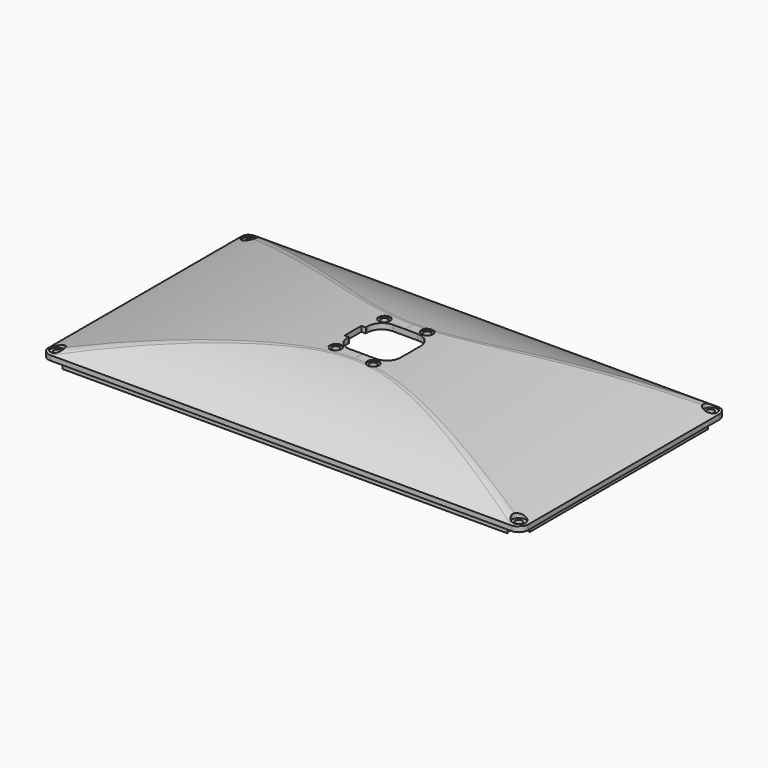
from build123d import *

# Parameters (mm, degrees)
CYLINDER001_R     = 1.6
CYLINDER001_DEPTH = 50
SKETCH009_R       = 2.6
PAD010_DEPTH      = 20
PAD009_DEPTH      = 42
CYLINDER_R        = 3
CYLINDER_DEPTH    = 50
SKETCH_R          = 1.6
PAD008_DEPTH      = 25
PAD007_DEPTH      = 117.5
PAD006_DEPTH      = 65
PAD005_DEPTH      = 22.5
PAD002_DEPTH      = 95
PAD004_DEPTH      = 137.5
PAD003_DEPTH      = 67.5
PAD_DEPTH         = 3
FILLET_R          = 6


with BuildPart() as pad010:
    # Cylinder001 → Cylinder001 (new body)
    with BuildSketch(Plane(origin=(-10.8, -13.7, -32.8), x_dir=(1, 0, 0), z_dir=(0, 0, 1))):
        Circle(CYLINDER001_R)
    extrude(amount=CYLINDER001_DEPTH)

    # Sketch009 → Pad010 (new body)
    with BuildSketch(Plane(origin=(-10.8, -13.7, 17.2), x_dir=(1, 0, 0), z_dir=(0, 0, 1))):
        Circle(SKETCH009_R)
    extrude(amount=PAD010_DEPTH)


with BuildPart() as part_mirroring002:
    # Part__Mirroring002: instance of Pad010
    add(pad010.part.mirror(Plane(origin=(0, 0, 0), x_dir=(1, 0, 0), z_dir=(0, 1, 0))))


with BuildPart() as clone_of_pad010:
    # Clone base: copy of Pad010
    add(pad010.part)


with BuildPart() as clone_of_pad010_1:
    # Clone placement: moved
    add(clone_of_pad010.part.moved(Location((18.1, -1.5, 0))))


with BuildPart() as part_mirroring003:
    # Part__Mirroring003: instance of Clone of Pad010
    add(clone_of_pad010_1.part.mirror(Plane(origin=(0, 0, 0), x_dir=(1, 0, 0), z_dir=(0, 1, 0))))


with BuildPart() as fusion002:
    # Sketch008 → Pad009 (new body)
    with BuildSketch(Plane.XY):
        with BuildLine():
            Line((5.6, 12), (-5.6, 12))
            ThreePointArc((-5.6, 12), (-10.125483, 10.125483), (-12, 5.6))
            Line((-12, 5.6), (-12, 4.75))
            Line((-12, 4.75), (-14, 4.75))
            Line((-14, 4.75), (-14, -4.75))
            Line((-14, -4.75), (-12, -4.75))
            Line((-12, -4.75), (-12, -5.6))
            ThreePointArc((-12, -5.6), (-10.125483, -10.125483), (-5.6, -12))
            Line((-5.6, -12), (5.6, -12))
            ThreePointArc((5.6, -12), (10.125483, -10.125483), (12, -5.6))
            Line((12, -5.6), (12, 0))
            Line((12, 0), (12, 5.6))
            ThreePointArc((12, 5.6), (10.125483, 10.125483), (5.6, 12))
        make_face()
    extrude(amount=PAD009_DEPTH)

    # Fusion002: union Part__Mirroring002, Pad010, Part__Mirroring003, Clone of Pad010
    add(part_mirroring002.part)
    add(pad010.part)
    add(part_mirroring003.part)
    add(clone_of_pad010_1.part)


with BuildPart() as pad008:
    # Cylinder → Cylinder (new body)
    with BuildSketch(Plane(origin=(104, -54, 2), x_dir=(1, 0, 0), z_dir=(0, 0, 1))):
        Circle(CYLINDER_R)
    extrude(amount=CYLINDER_DEPTH)

    # Sketch → Pad008 (new body)
    with BuildSketch(Plane(origin=(104, -54, 2), x_dir=(1, 0, 0), z_dir=(0, 0, -1))):
        Circle(SKETCH_R)
    extrude(amount=PAD008_DEPTH)


with BuildPart() as part_mirroring:
    # Part__Mirroring: instance of Pad008
    add(pad008.part.mirror(Plane(origin=(0, 0, 0), x_dir=(1, 0, 0), z_dir=(0, 1, 0))))


with BuildPart() as fusion:
    # Fusion base: copy of Pad008
    add(pad008.part)

    # Fusion: union Part__Mirroring
    add(part_mirroring.part)


with BuildPart() as part_mirroring001:
    # Part__Mirroring001: instance of Fusion
    add(fusion.part.mirror(Plane(origin=(0, 0, 0), x_dir=(0, -1, 0), z_dir=(1, 0, 0))))


with BuildPart() as screw_pockets:
    # Fusion001 base: copy of Fusion
    add(fusion.part)

    # Fusion001: union Part__Mirroring001
    add(part_mirroring001.part)


with BuildPart() as mirrored003:
    # Sketch007 → Pad007 (new body, symmetric)
    with BuildSketch(Plane.YZ):
        with BuildLine():
            Line((-20.5, 15.2), (0, 15.2))
            Line((0, 15.2), (0, -5))
            Line((-65.417582, -5), (0, -5))
            ThreePointArc((-20.5, 15.2), (-44.130123, 7.704623), (-65.417582, -5))
        make_face()
    pad007 = extrude(amount=PAD007_DEPTH, both=True)

    # Mirrored003: Pad007 across Sketch007 V_Axis
    add(pad007.mirror(Plane(origin=(0, 0, 0), x_dir=(1, 0, 0), z_dir=(0, 1, 0))))


with BuildPart() as common002:
    # Sketch006 → Pad006 (new body, symmetric)
    with BuildSketch(Plane.XZ):
        with BuildLine():
            Line((0, -5), (-124.236181, -5))
            ThreePointArc((-16, 15.5), (-70.863313, 9.184635), (-124.236181, -5))
            Line((-16, 15.5), (0, 15.5))
            Line((0, -5), (0, 15.5))
        make_face()
    pad006 = extrude(amount=PAD006_DEPTH, both=True)

    # Mirrored002: Pad006 across Sketch006 V_Axis
    add(pad006.mirror(Plane(origin=(0, 0, 0), x_dir=(0, -1, 0), z_dir=(1, 0, 0))))

    # Common002: intersect Mirrored003
    add(mirrored003.part, mode=Mode.INTERSECT)


with BuildPart() as common003:
    # Sketch005 → Pad005 (new body, symmetric)
    with BuildSketch(Plane.XY):
        with BuildLine():
            Line((-104.3, 48.3079), (-104.3, -48.3079))
            ThreePointArc((-98.3079, -54.3), (-99.969491, -49.969491), (-104.3, -48.3079))
            Line((-98.3079, -54.3), (98.3079, -54.3))
            ThreePointArc((104.3, -48.3079), (99.969491, -49.969491), (98.3079, -54.3))
            Line((104.3, -48.3079), (104.3, 48.3079))
            ThreePointArc((98.3079, 54.3), (99.969491, 49.969491), (104.3, 48.3079))
            Line((98.3079, 54.3), (-98.3079, 54.3))
            ThreePointArc((-104.3, 48.3079), (-99.969491, 49.969491), (-98.3079, 54.3))
        make_face()
    extrude(amount=PAD005_DEPTH, both=True)

    # Common003: intersect Common002
    add(common002.part, mode=Mode.INTERSECT)


with BuildPart() as outer_edges:
    # Sketch002 → Pad002 (new body)
    with BuildSketch(Plane.XY):
        with BuildLine():
            Line((-104, 58), (104, 58))
            ThreePointArc((108, 54), (106.828427, 56.828427), (104, 58))
            Line((108, 54), (108, -54))
            ThreePointArc((104, -58), (106.828427, -56.828427), (108, -54))
            Line((104, -58), (-104, -58))
            ThreePointArc((-108, -54), (-106.828427, -56.828427), (-104, -58))
            Line((-108, -54), (-108, 54))
            ThreePointArc((-104, 58), (-106.828427, 56.828427), (-108, 54))
        make_face()
    extrude(amount=PAD002_DEPTH)


with BuildPart() as mirrored001:
    # Sketch004 → Pad004 (new body, symmetric)
    with BuildSketch(Plane.YZ):
        with BuildLine():
            ThreePointArc((0, 19.17096), (-32.114777, 14.266439), (-61.301794, 0))
            Line((-61.301794, 0), (0, 0))
            Line((0, 19.17096), (0, 0))
        make_face()
    pad004 = extrude(amount=PAD004_DEPTH, both=True)

    # Mirrored001: Pad004 across Sketch004 V_Axis
    add(pad004.mirror(Plane(origin=(0, 0, 0), x_dir=(1, 0, 0), z_dir=(0, 1, 0))))


with BuildPart() as clone_of_cut002:
    # Sketch003 → Pad003 (new body, symmetric)
    with BuildSketch(Plane.XZ):
        with BuildLine():
            Line((0, 0), (-115.177541, 0))
            ThreePointArc((0, 17.836286), (-58.275207, 13.350797), (-115.177541, 0))
            Line((0, 0), (0, 17.836286))
        make_face()
    pad003 = extrude(amount=PAD003_DEPTH, both=True)

    # Mirrored: Pad003 across Sketch003 V_Axis
    add(pad003.mirror(Plane(origin=(0, 0, 0), x_dir=(0, -1, 0), z_dir=(1, 0, 0))))

    # Common: intersect Mirrored001
    add(mirrored001.part, mode=Mode.INTERSECT)

    # Common001: intersect outer_edges
    add(outer_edges.part, mode=Mode.INTERSECT)

    # Sketch001 → Pad (new body)
    with BuildSketch(Plane(origin=(0, 0, 0), x_dir=(1, 0, 0), z_dir=(0, 0, -1))):
        with BuildLine():
            Line((-105.8, 50.205267), (-105.8, -50.205267))
            ThreePointArc((-100.205267, -55.8), (-101.030152, -51.030152), (-105.8, -50.205267))
            Line((-100.205267, -55.8), (100.205267, -55.8))
            ThreePointArc((105.8, -50.205267), (101.030152, -51.030152), (100.205267, -55.8))
            Line((105.8, -50.205267), (105.8, 50.205267))
            ThreePointArc((100.205267, 55.8), (101.030152, 51.030152), (105.8, 50.205267))
            Line((100.205267, 55.8), (-100.205267, 55.8))
            ThreePointArc((-105.8, 50.205267), (-101.030152, 51.030152), (-100.205267, 55.8))
        make_face()
    extrude(amount=PAD_DEPTH)

    # Fillet
    fillet_edges = [clone_of_cut002.edges().sort_by_distance(p)[0] for p in [
        (54.865494, 33.377395, 13.863025),
        (54.865494, -33.377395, 13.863025),
        (-54.865494, -33.377395, 13.863025),
        (-54.865494, 33.377395, 13.863025),
    ]]
    fillet(fillet_edges, radius=FILLET_R)

    # Cut: cut Common003
    add(common003.part, mode=Mode.SUBTRACT)

    # Cut001: cut screw_pockets
    add(screw_pockets.part, mode=Mode.SUBTRACT)

    # Cut002: cut Fusion002
    add(fusion002.part, mode=Mode.SUBTRACT)


with BuildPart() as clone_of_cut002_1:
    # Clone004 placement: moved
    add(clone_of_cut002.part.moved(Location((0, 0, 1))))


solid = clone_of_cut002_1.part
